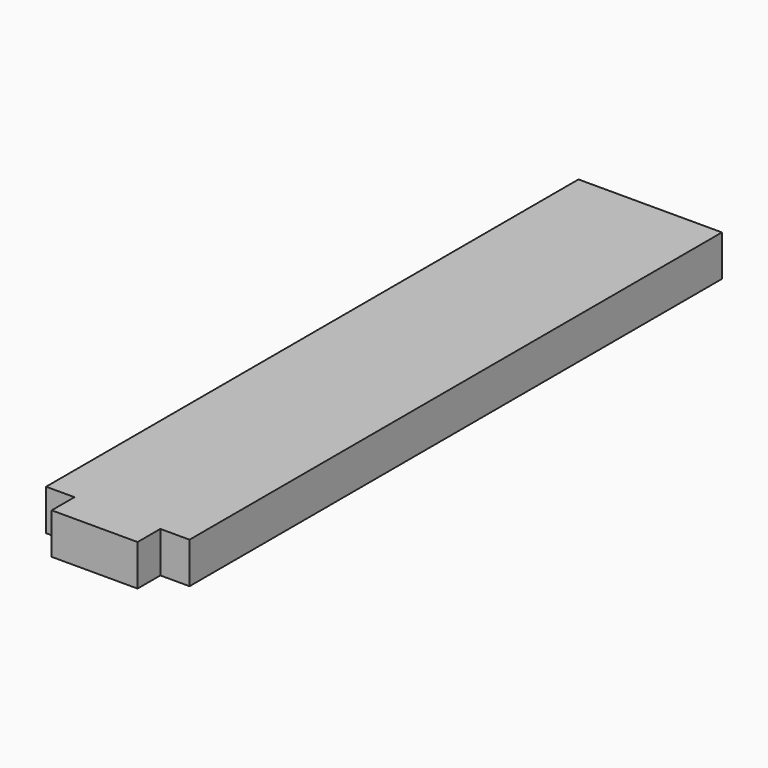
from build123d import *

# Parameters (mm, degrees)
F0_W     = 25.2
F0_H     = 7.2
F1_DEPTH = 58.45
F2_W     = 15.086318
F2_H     = 7.2
F3_DEPTH = 5


with BuildPart() as f1:
    # F0 (on Front) → F1 (new body, symmetric)
    with BuildSketch(Plane.XZ):
        with Locations((-28.073686, 3.6)):
            Rectangle(F0_W, F0_H)
    extrude(amount=F1_DEPTH, both=True)

    # F2 (on face) → F3 (join)
    with BuildSketch(Plane.XZ.offset(58.45)):
        with Locations((-28.144586, 3.6)):
            Rectangle(F2_W, F2_H)
    extrude(amount=F3_DEPTH)


solid = f1.part
